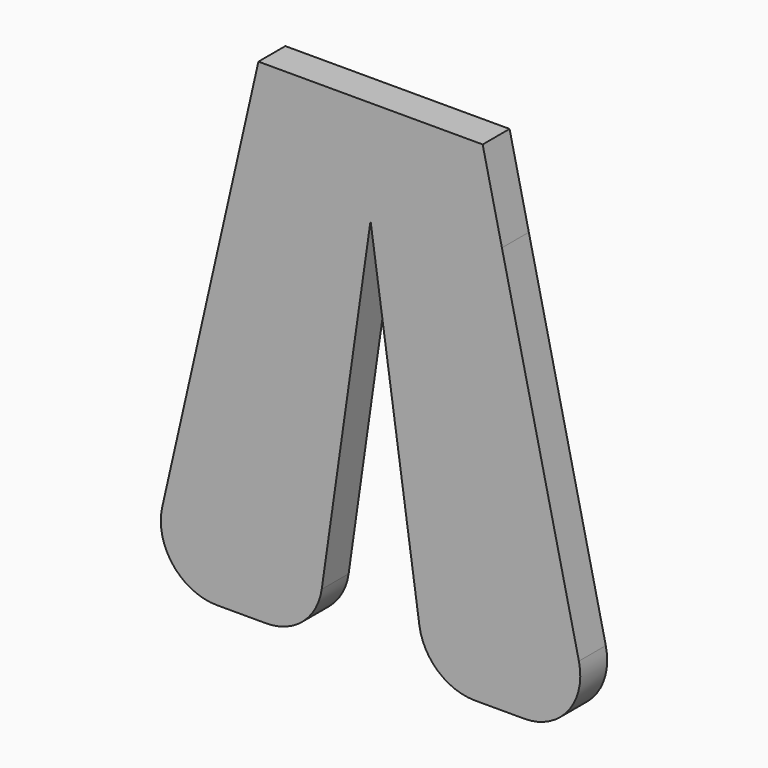
from build123d import *

# Parameters (mm, degrees)
F1_DEPTH = 3
F2_R     = 5


with BuildPart() as f1:
    # F0 (on Front) → F1 (new body)
    with BuildSketch(Plane.XZ):
        Polygon((20, 0), (0, 0), (-9.969531, -43.881755), (5.030469, -43.881755), (10, -9.236355), (21.716592, -7.555729), align=None)
        Polygon((29.969531, -43.881755), (21.716592, -7.555729), (10, -9.236355), (14.969531, -43.881755), align=None)
    extrude(amount=F1_DEPTH)

    # F2
    f2_edges = [f1.edges().sort_by_distance(p)[0] for p in [
        (-9.969531, -1.5, -43.881755),
        (5.030469, -1.5, -43.881755),
        (14.969531, -1.5, -43.881755),
        (29.969531, -1.5, -43.881755),
    ]]
    fillet(f2_edges, radius=F2_R)


solid = f1.part
